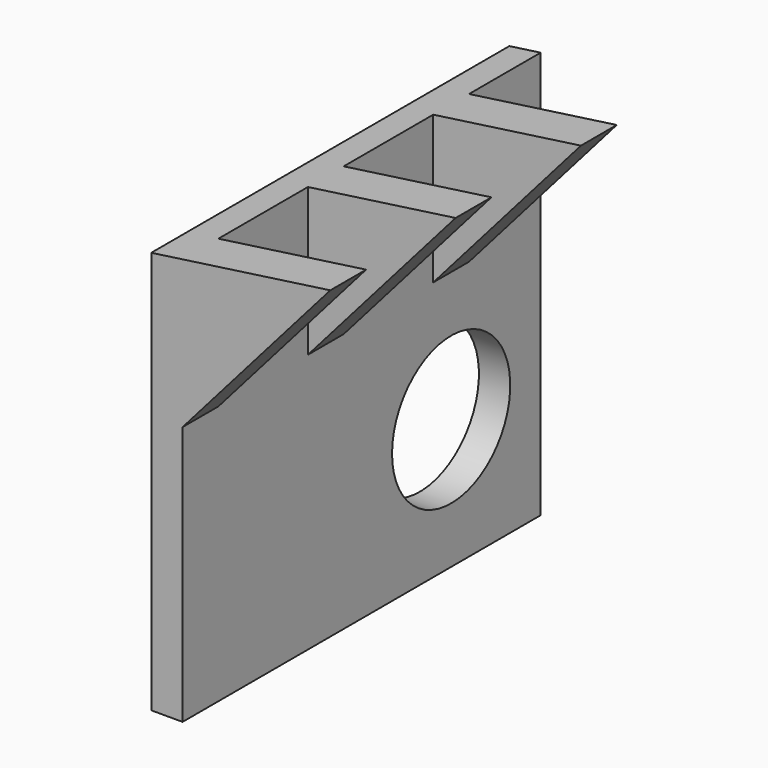
from build123d import *

# Parameters (mm, degrees)
F1_DEPTH = 100
F3_DEPTH = 100
F4_W     = 37.074
F4_H     = 23.256904
F4_H_2   = 25
F5_DEPTH = 150
F7_DEPTH = 25


with BuildPart() as f1:
    # F0 (on Front) → F1 (new body)
    with BuildSketch(Plane.XZ):
        Polygon((0, 90), (0, 0), (148.54021, 0), (148.54021, 110.875965), align=None)
    extrude(amount=F1_DEPTH)

    # F2 (on face) → F3 (cut)
    with BuildSketch(Plane.XZ.offset(100)):
        Polygon((7, 0), (40, 0), (148.54021, 0), (148.54021, 169.224784), (40, 169.224784), (40, 95.621633), (7, 57.987016), align=None)
    extrude(amount=-F3_DEPTH, mode=Mode.SUBTRACT)

    # F4 (on face) → F5 (cut)
    with BuildSketch(Plane(origin=(0, 0, 0), x_dir=(1, 0, 0), z_dir=(0, 0, -1))):
        with Locations((25.537, 8.371548)):
            Rectangle(F4_W, F4_H)
        with Locations((25.537, 42.5)):
            Rectangle(F4_W, F4_H_2)
        with Locations((25.537, 77.5)):
            Rectangle(F4_W, F4_H_2)
    extrude(amount=-F5_DEPTH, mode=Mode.SUBTRACT)

    # F6 (on face) → F7 (cut)
    with BuildSketch(Plane.YZ.offset(7)):
        with BuildLine():
            ThreePointArc((-8.5, 28.993508), (-25, 45.493508), (-41.5, 28.993508))
            Line((-41.5, 28.993508), (-8.5, 28.993508))
        make_face()
        with BuildLine():
            Line((-8.5, 28.993508), (-41.5, 28.993508))
            ThreePointArc((-41.5, 28.993508), (-25, 12.493508), (-8.5, 28.993508))
        make_face()
    extrude(amount=-F7_DEPTH, mode=Mode.SUBTRACT)


solid = f1.part
